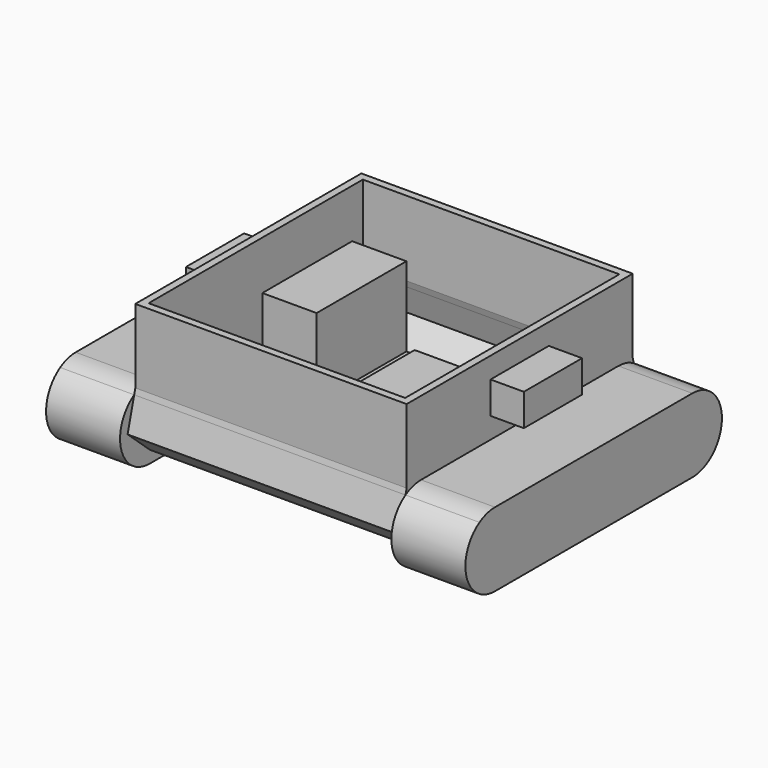
from build123d import *

# Parameters (mm, degrees)
F0_W     = 29.5
F0_H     = 13
F1_DEPTH = 55
F2_START = 55
F2_DEPTH = 30
F3_START = -55
F3_DEPTH = 30
F4_T     = -3
F5_W     = 22
F5_H     = 45.5
F6_DEPTH = 32.2
F7_DEPTH = 1.6
F8_START = 55
F8_DEPTH = 13.5
F9_START = -55
F9_DEPTH = 13.5


with BuildPart() as f1:
    # F0 (on Right) → F1 (new body, symmetric)
    with BuildSketch(Plane.YZ):
        with BuildLine():
            Line((0, -10), (38.8196601125, -10))
            ThreePointArc((38.8196601125, -10), (36.3069360624, 6.123724357), (50, 15))
            Line((50, 15), (-50, 15))
            ThreePointArc((-50, 15), (-39.3933982822, 10.6066017178), (-35, 0))
            ThreePointArc((-35, 0), (-35.9874146156, -5.3523313466), (-38.8196601125, -10))
            Line((-38.8196601125, -10), (0, -10))
        make_face()
        with BuildLine():
            ThreePointArc((50, 15), (36.3069360624, 6.123724357), (38.8196601125, -10))
            Line((38.8196601125, -10), (50, -10))
            Line((50, -10), (61.1803398875, 0))
            Line((61.1803398875, 0), (57.8531824307, 12.7799657946))
            ThreePointArc((57.8531824307, 12.7799657946), (54.0804725879, 14.434325182), (50, 15))
        make_face()
        with BuildLine():
            ThreePointArc((-50, 15), (-54.0804725879, 14.434325182), (-57.8531824307, 12.7799657946))
            Line((-57.8531824307, 12.7799657946), (-61.1803398875, 0))
            Line((-61.1803398875, 0), (-50, -10))
            Line((-50, -10), (-38.8196601125, -10))
            ThreePointArc((-38.8196601125, -10), (-35.9874146156, -5.3523313466), (-35, 0))
            ThreePointArc((-35, 0), (-39.3933982822, 10.6066017178), (-50, 15))
        make_face()
        with BuildLine():
            Line((-57.2752150495, 15), (-57.8531824307, 12.7799657946))
            ThreePointArc((-57.8531824307, 12.7799657946), (-54.0804725879, 14.434325182), (-50, 15))
            Line((-50, 15), (-57.2752150495, 15))
        make_face()
        with BuildLine():
            ThreePointArc((50, 15), (54.0804725879, 14.434325182), (57.8531824307, 12.7799657946))
            Line((57.8531824307, 12.7799657946), (57.2752150495, 15))
            Line((57.2752150495, 15), (50, 15))
        make_face()
        Polygon((-50, 15), (50, 15), (57.2752150495, 15), (57.2752150495, 45), (-57.2752150495, 45), (-57.2752150495, 15), align=None)
        with Locations((0, 30)):
            Rectangle(F0_W, F0_H, mode=Mode.SUBTRACT)
        with BuildLine():
            ThreePointArc((50, 15), (54.0804725879, 14.434325182), (57.8531824307, 12.7799657946))
            Line((57.8531824307, 12.7799657946), (57.2752150495, 15))
            Line((57.2752150495, 15), (50, 15))
        make_face()
        with BuildLine():
            Line((-57.2752150495, 15), (-57.8531824307, 12.7799657946))
            ThreePointArc((-57.8531824307, 12.7799657946), (-54.0804725879, 14.434325182), (-50, 15))
            Line((-50, 15), (-57.2752150495, 15))
        make_face()
        with BuildLine():
            Line((0, -10), (38.8196601125, -10))
            ThreePointArc((38.8196601125, -10), (36.3069360624, 6.123724357), (50, 15))
            Line((50, 15), (-50, 15))
            ThreePointArc((-50, 15), (-39.3933982822, 10.6066017178), (-35, 0))
            ThreePointArc((-35, 0), (-35.9874146156, -5.3523313466), (-38.8196601125, -10))
            Line((-38.8196601125, -10), (0, -10))
        make_face()
        with Locations((0, 30)):
            Rectangle(F0_W, F0_H)
    extrude(amount=F1_DEPTH, both=True)

    # F4
    f4_openings = [f1.faces().sort_by_distance(p)[0] for p in [
        (0, 0, 45),
    ]]
    offset(amount=F4_T, openings=f4_openings, kind=Kind.INTERSECTION)


with BuildPart() as f2:
    # F0 (on Right) → F2 (new body)
    with BuildSketch(Plane.YZ.offset(F2_START)):
        with BuildLine():
            ThreePointArc((-50, 15), (-54.0804725879, 14.434325182), (-57.8531824307, 12.7799657946))
            Line((-57.8531824307, 12.7799657946), (-61.1803398875, 0))
            Line((-61.1803398875, 0), (-50, -10))
            Line((-50, -10), (-38.8196601125, -10))
            ThreePointArc((-38.8196601125, -10), (-35.9874146156, -5.3523313466), (-35, 0))
            ThreePointArc((-35, 0), (-39.3933982822, 10.6066017178), (-50, 15))
        make_face()
        with BuildLine():
            ThreePointArc((-57.8531824307, 12.7799657946), (-64.434325182, -4.0804725879), (-50, -15))
            ThreePointArc((-50, -15), (-43.876275643, -13.6930639376), (-38.8196601125, -10))
            Line((-38.8196601125, -10), (-50, -10))
            Line((-50, -10), (-61.1803398875, 0))
            Line((-61.1803398875, 0), (-57.8531824307, 12.7799657946))
        make_face()
        with BuildLine():
            ThreePointArc((50, 15), (36.3069360624, 6.123724357), (38.8196601125, -10))
            Line((38.8196601125, -10), (50, -10))
            Line((50, -10), (61.1803398875, 0))
            Line((61.1803398875, 0), (57.8531824307, 12.7799657946))
            ThreePointArc((57.8531824307, 12.7799657946), (54.0804725879, 14.434325182), (50, 15))
        make_face()
        with BuildLine():
            Line((0, -10), (38.8196601125, -10))
            ThreePointArc((38.8196601125, -10), (36.3069360624, 6.123724357), (50, 15))
            Line((50, 15), (-50, 15))
            ThreePointArc((-50, 15), (-39.3933982822, 10.6066017178), (-35, 0))
            ThreePointArc((-35, 0), (-35.9874146156, -5.3523313466), (-38.8196601125, -10))
            Line((-38.8196601125, -10), (0, -10))
        make_face()
        with BuildLine():
            ThreePointArc((38.8196601125, -10), (43.876275643, -13.6930639376), (50, -15))
            ThreePointArc((50, -15), (60.6066017178, -10.6066017178), (65, 0))
            ThreePointArc((65, 0), (63.0919390554, 7.3212793807), (57.8531824307, 12.7799657946))
            Line((57.8531824307, 12.7799657946), (61.1803398875, 0))
            Line((61.1803398875, 0), (50, -10))
            Line((50, -10), (38.8196601125, -10))
        make_face()
        with BuildLine():
            Line((-50, -15), (50, -15))
            ThreePointArc((50, -15), (43.876275643, -13.6930639376), (38.8196601125, -10))
            Line((38.8196601125, -10), (0, -10))
            Line((0, -10), (-38.8196601125, -10))
            ThreePointArc((-38.8196601125, -10), (-43.876275643, -13.6930639376), (-50, -15))
        make_face()
        with BuildLine():
            Line((0, -10), (38.8196601125, -10))
            ThreePointArc((38.8196601125, -10), (36.3069360624, 6.123724357), (50, 15))
            Line((50, 15), (-50, 15))
            ThreePointArc((-50, 15), (-39.3933982822, 10.6066017178), (-35, 0))
            ThreePointArc((-35, 0), (-35.9874146156, -5.3523313466), (-38.8196601125, -10))
            Line((-38.8196601125, -10), (0, -10))
        make_face()
    extrude(amount=F2_DEPTH)


with BuildPart() as f3:
    # F0 (on Right) → F3 (new body)
    with BuildSketch(Plane.YZ.offset(F3_START)):
        with BuildLine():
            Line((0, -10), (38.8196601125, -10))
            ThreePointArc((38.8196601125, -10), (36.3069360624, 6.123724357), (50, 15))
            Line((50, 15), (-50, 15))
            ThreePointArc((-50, 15), (-39.3933982822, 10.6066017178), (-35, 0))
            ThreePointArc((-35, 0), (-35.9874146156, -5.3523313466), (-38.8196601125, -10))
            Line((-38.8196601125, -10), (0, -10))
        make_face()
        with BuildLine():
            ThreePointArc((-57.8531824307, 12.7799657946), (-64.434325182, -4.0804725879), (-50, -15))
            ThreePointArc((-50, -15), (-43.876275643, -13.6930639376), (-38.8196601125, -10))
            Line((-38.8196601125, -10), (-50, -10))
            Line((-50, -10), (-61.1803398875, 0))
            Line((-61.1803398875, 0), (-57.8531824307, 12.7799657946))
        make_face()
        with BuildLine():
            ThreePointArc((38.8196601125, -10), (43.876275643, -13.6930639376), (50, -15))
            ThreePointArc((50, -15), (60.6066017178, -10.6066017178), (65, 0))
            ThreePointArc((65, 0), (63.0919390554, 7.3212793807), (57.8531824307, 12.7799657946))
            Line((57.8531824307, 12.7799657946), (61.1803398875, 0))
            Line((61.1803398875, 0), (50, -10))
            Line((50, -10), (38.8196601125, -10))
        make_face()
        with BuildLine():
            ThreePointArc((50, 15), (36.3069360624, 6.123724357), (38.8196601125, -10))
            Line((38.8196601125, -10), (50, -10))
            Line((50, -10), (61.1803398875, 0))
            Line((61.1803398875, 0), (57.8531824307, 12.7799657946))
            ThreePointArc((57.8531824307, 12.7799657946), (54.0804725879, 14.434325182), (50, 15))
        make_face()
        with BuildLine():
            Line((-50, -15), (50, -15))
            ThreePointArc((50, -15), (43.876275643, -13.6930639376), (38.8196601125, -10))
            Line((38.8196601125, -10), (0, -10))
            Line((0, -10), (-38.8196601125, -10))
            ThreePointArc((-38.8196601125, -10), (-43.876275643, -13.6930639376), (-50, -15))
        make_face()
        with BuildLine():
            ThreePointArc((-50, 15), (-54.0804725879, 14.434325182), (-57.8531824307, 12.7799657946))
            Line((-57.8531824307, 12.7799657946), (-61.1803398875, 0))
            Line((-61.1803398875, 0), (-50, -10))
            Line((-50, -10), (-38.8196601125, -10))
            ThreePointArc((-38.8196601125, -10), (-35.9874146156, -5.3523313466), (-35, 0))
            ThreePointArc((-35, 0), (-39.3933982822, 10.6066017178), (-50, 15))
        make_face()
        with BuildLine():
            Line((0, -10), (38.8196601125, -10))
            ThreePointArc((38.8196601125, -10), (36.3069360624, 6.123724357), (50, 15))
            Line((50, 15), (-50, 15))
            ThreePointArc((-50, 15), (-39.3933982822, 10.6066017178), (-35, 0))
            ThreePointArc((-35, 0), (-35.9874146156, -5.3523313466), (-38.8196601125, -10))
            Line((-38.8196601125, -10), (0, -10))
        make_face()
    extrude(amount=-F3_DEPTH)


with BuildPart() as f6:
    # F5 (on face) → F6 (new body)
    with BuildSketch(Plane.XY.offset(-7)):
        with Locations((-41, 26.1041019662)):
            Rectangle(F5_W, F5_H)
    extrude(amount=F6_DEPTH)


with BuildPart() as f6b:
    # F5 (on face) → F6, piece 2 (new body)
    with BuildSketch(Plane.XY.offset(-7)):
        with Locations((41, 26.1041019662)):
            Rectangle(F5_W, F5_H)
    extrude(amount=F6_DEPTH)


with BuildPart() as f7:
    # F5 (on face) → F7 (new body)
    with BuildSketch(Plane.XY.offset(-7)):
        Polygon((0, 48.8541019662), (-26.65, 48.8541019662), (-26.65, -19.7458980338), (26.65, -19.7458980338), (26.65, 48.8541019662), align=None)
    extrude(amount=F7_DEPTH)


with BuildPart() as f8:
    # F0 (on Right) → F8 (new body)
    with BuildSketch(Plane.YZ.offset(F8_START)):
        with Locations((0, 30)):
            Rectangle(F0_W, F0_H)
    extrude(amount=F8_DEPTH)


with BuildPart() as f9:
    # F0 (on Right) → F9 (new body)
    with BuildSketch(Plane.YZ.offset(F9_START)):
        with Locations((0, 30)):
            Rectangle(F0_W, F0_H)
    extrude(amount=-F9_DEPTH)


solid = Compound([f1.part, f2.part, f3.part, f6.part, f6b.part, f7.part, f8.part, f9.part])
